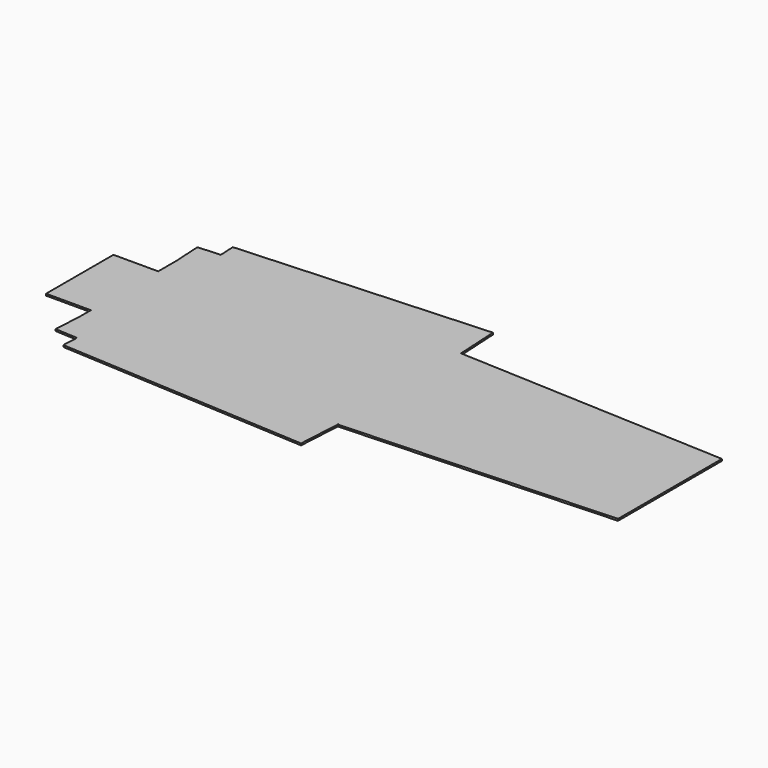
from build123d import *

# Parameters (mm, degrees)
F1_DEPTH = 2


with BuildPart() as f1:
    # F0 (on Top) → F1 (new body)
    with BuildSketch(Plane.XY):
        Polygon((302, 72.5), (275, 73.7069536424), (275, 0), (275, -73.7069536424), (302, -72.5), (302, 0), align=None)
        Polygon((0, 84), (0, 0), (0, -84), (0, -86), (275, -73.7069536424), (275, 0), (275, 73.7069536424), (0, 86), align=None)
        Polygon((0, -84), (0, 0), (0, 84), (-303, 67), (-303, 42), (-303, 0), (-303, -52), (-303, -67), align=None)
        Polygon((-2.8008756383, -133.9214893173), (0, -84), (-303, -67), (-304.7925604085, -98.9497531631), (-279.8318157498, -100.3501909822), (-280.7333549372, -118.3279178715), align=None)
        Polygon((-303, 67), (0, 84), (-2.8008756383, 133.9214893173), (-280.7333549372, 118.3279178715), (-279.8318157498, 100.3501909822), (-304.7925604085, 98.9497531631), align=None)
        Polygon((-303, 0), (-303, 42), (-353, 42), (-353, 0), (-353, -52), (-303, -52), align=None)
    extrude(amount=F1_DEPTH)


solid = f1.part
